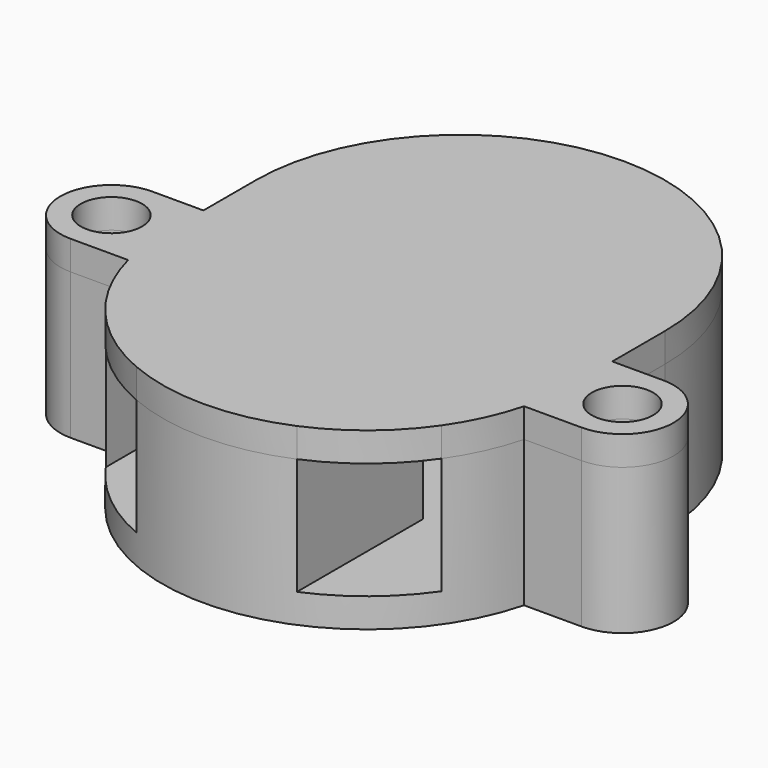
from build123d import *

# Parameters (mm, degrees)
F0_R     = 2.1
F0_R_2   = 4.5
F1_DEPTH = 10
F3_DEPTH = 8
F4_R     = 2.1
F5_DEPTH = 2


with BuildPart() as f1:
    # F0 (on Top) → F1 (new body)
    with BuildSketch(Plane.XY):
        with BuildLine():
            Line((13.555442, -3.5), (-13.555442, -3.5))
            ThreePointArc((-13.555442, -3.5), (0, -14), (13.555442, -3.5))
        make_face()
        with BuildLine():
            Line((-17.5, -3.5), (-13.555442, -3.5))
            Line((-13.555442, -3.5), (13.555442, -3.5))
            Line((13.555442, -3.5), (17.5, -3.5))
            Line((17.5, -3.5), (17.5, -2.1))
            ThreePointArc((17.5, -2.1), (15.4, 0), (17.5, 2.1))
            Line((17.5, 2.1), (17.5, 3.5))
            Line((17.5, 3.5), (14, 3.5))
            Line((14, 3.5), (14, 8))
            ThreePointArc((14, 8), (0, 22), (-14, 8))
            Line((-14, 8), (-14, 3.5))
            Line((-14, 3.5), (-17.5, 3.5))
            ThreePointArc((-17.5, 3.5), (-21, 0), (-17.5, -3.5))
        make_face()
        with Locations((-17.5, 0)):
            Circle(F0_R, mode=Mode.SUBTRACT)
        with Locations((0, 8)):
            Circle(F0_R_2, mode=Mode.SUBTRACT)
        with BuildLine():
            Line((17.5, -2.1), (17.5, -3.5))
            ThreePointArc((17.5, -3.5), (21, 0), (17.5, 3.5))
            Line((17.5, 3.5), (17.5, 2.1))
            ThreePointArc((17.5, 2.1), (18.984924, 1.484924), (19.6, 0))
            ThreePointArc((19.6, 0), (18.984924, -1.484924), (17.5, -2.1))
        make_face()
    extrude(amount=F1_DEPTH)

    # F2 (on face) → F3 (cut)
    with BuildSketch(Plane.XY.offset(10)):
        with BuildLine():
            Line((-5.5, 8), (-5.5, -2.099505))
            ThreePointArc((-5.5, -2.099505), (0, -3.5), (5.5, -2.099505))
            Line((5.5, -2.099505), (5.5, 8))
            Line((5.5, 8), (11.5, 8))
            ThreePointArc((11.5, 8), (0, 19.5), (-11.5, 8))
            Line((-11.5, 8), (-5.5, 8))
        make_face()
        Polygon((-5.5, -12.874393), (-5.5, -2.099505), (-5.5, 8), (-11.5, 8), (-11.5, -12.874393), align=None)
        Polygon((5.5, 8), (5.5, -2.099505), (5.5, -12.874393), (11.5, -12.874393), (11.5, 8), align=None)
    extrude(amount=-F3_DEPTH, mode=Mode.SUBTRACT)


with BuildPart() as f5:
    # F4 (on face) → F5 (new body)
    with BuildSketch(Plane.XY.offset(10)):
        with BuildLine():
            Line((13.555442, -3.5), (17.5, -3.5))
            ThreePointArc((17.5, -3.5), (21, 0), (17.5, 3.5))
            Line((17.5, 3.5), (14, 3.5))
            Line((14, 3.5), (14, 8))
            ThreePointArc((14, 8), (0, 22), (-14, 8))
            Line((-14, 8), (-14, 3.5))
            Line((-14, 3.5), (-17.5, 3.5))
            ThreePointArc((-17.5, 3.5), (-21, 0), (-17.5, -3.5))
            Line((-17.5, -3.5), (-13.555442, -3.5))
            ThreePointArc((-13.555442, -3.5), (-12.726789, -5.833424), (-11.5, -7.98436))
            ThreePointArc((-11.5, -7.98436), (-8.844665, -10.852276), (-5.5, -12.874393))
            ThreePointArc((-5.5, -12.874393), (0, -14), (5.5, -12.874393))
            ThreePointArc((5.5, -12.874393), (8.844665, -10.852276), (11.5, -7.98436))
            ThreePointArc((11.5, -7.98436), (12.726789, -5.833424), (13.555442, -3.5))
        make_face()
        with Locations((-17.5, 0)):
            Circle(F4_R, mode=Mode.SUBTRACT)
        with Locations((17.5, 0)):
            Circle(F4_R, mode=Mode.SUBTRACT)
    extrude(amount=F5_DEPTH)


solid = Compound([f1.part, f5.part])
